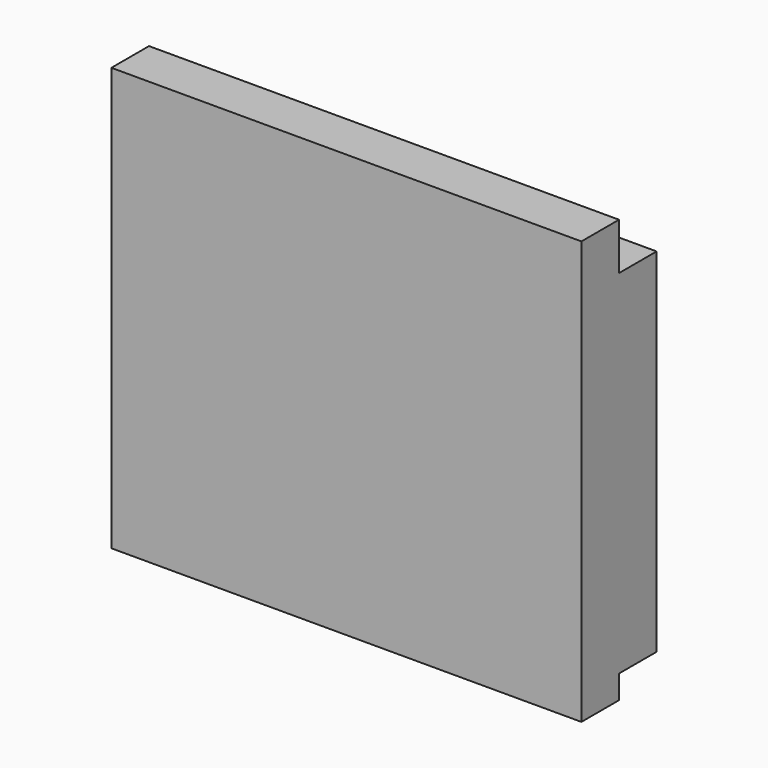
from build123d import *

# Parameters (mm, degrees)
F0_W     = 2
F0_H     = 2
F0_H_2   = 15
F0_H_3   = 1
F1_DEPTH = 20
F2_W     = 3
F2_H     = 9
F3_DEPTH = 1


with BuildPart() as f1:
    # F0 (on Right) → F1 (new body)
    with BuildSketch(Plane.YZ):
        with Locations((0.972156, 7.916231)):
            Rectangle(F0_W, F0_H)
        with Locations((0.972156, -0.583769)):
            Rectangle(F0_W, F0_H_2)
        with Locations((2.972156, -0.583769)):
            Rectangle(F0_W, F0_H_2)
        with Locations((0.972156, -8.583769)):
            Rectangle(F0_W, F0_H_3)
    extrude(amount=F1_DEPTH)

    # F2 (on face) → F3 (cut)
    with BuildSketch(Plane(origin=(0, 3.972156, 0), x_dir=(-1, 0, 0), z_dir=(0, 1, 0))):
        with Locations((-15.5, -0.583769)):
            Rectangle(F2_W, F2_H)
    extrude(amount=-F3_DEPTH, mode=Mode.SUBTRACT)


solid = f1.part
